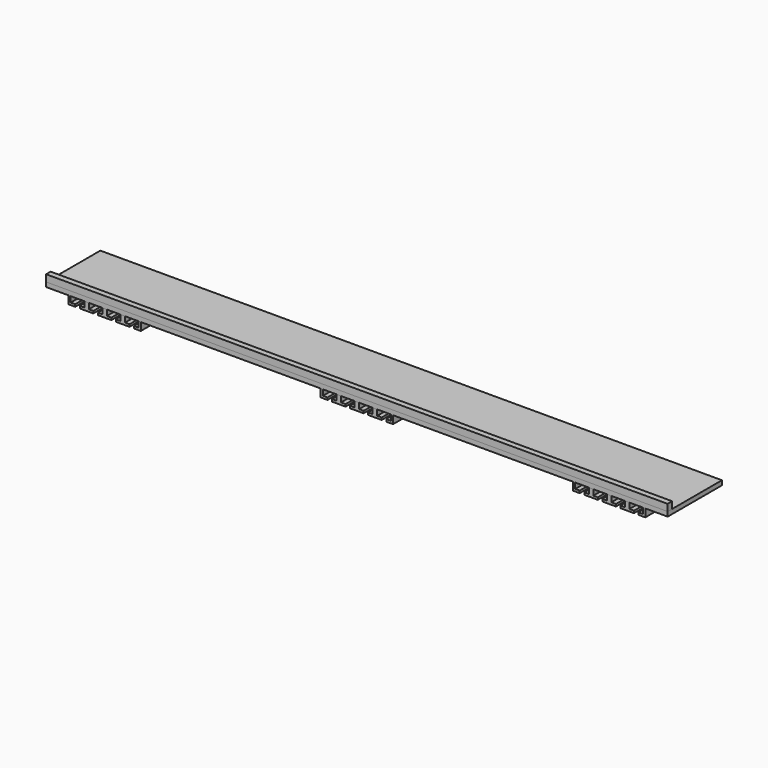
from build123d import *

# Parameters (mm, degrees)
F0_W     = 2750
F0_H     = 20
F1_DEPTH = 300
F2_W     = 2750
F2_H     = 25
F3_DEPTH = 30
F5_DEPTH = 300


with BuildPart() as f1:
    # F0 (on Front) → F1 (new body)
    with BuildSketch(Plane.XZ):
        Rectangle(F0_W, F0_H)
    extrude(amount=F1_DEPTH)


with BuildPart() as f3:
    # F2 (on face) → F3 (new body)
    with BuildSketch(Plane.XY.offset(10)):
        with Locations((0, -287.5)):
            Rectangle(F2_W, F2_H)
    extrude(amount=F3_DEPTH)


with BuildPart() as f5:
    # F4 (on face) → F5 (new body)
    with BuildSketch(Plane.XZ.offset(300)):
        Polygon((10, -10), (0, -10), (0, -45), (30, -45), (30, -35), (10, -35), align=None)
        Polygon((0, -45), (0, -10), (-10, -10), (-10, -35), (-30, -35), (-30, -45), align=None)
        Polygon((50, -45), (80, -45), (80, -10), (70, -10), (70, -35), (50, -35), align=None)
        Polygon((80, -10), (80, -45), (110, -45), (110, -35), (90, -35), (90, -10), align=None)
        Polygon((-70, -10), (-80, -10), (-80, -45), (-50, -45), (-50, -35), (-70, -35), align=None)
        Polygon((-80, -45), (-80, -10), (-90, -10), (-90, -35), (-110, -35), (-110, -45), align=None)
        Polygon((130, -45), (160, -45), (160, -10), (150, -10), (150, -35), (130, -35), align=None)
        Polygon((-150, -35), (-150, -10), (-160, -10), (-160, -45), (-130, -45), (-130, -35), align=None)
    extrude(amount=-F5_DEPTH)


with BuildPart() as f7_1:
    # F7: instance of F5
    add(f5.part.mirror(Plane(origin=(558, -150, 0), x_dir=(0, 1, 0), z_dir=(1, 0, 0))))


with BuildPart() as f8_1:
    # F8: instance of F7_1
    add(f7_1.part.mirror(Plane.YZ))


solid = Compound([f1.part, f3.part, f5.part, f7_1.part, f8_1.part])
